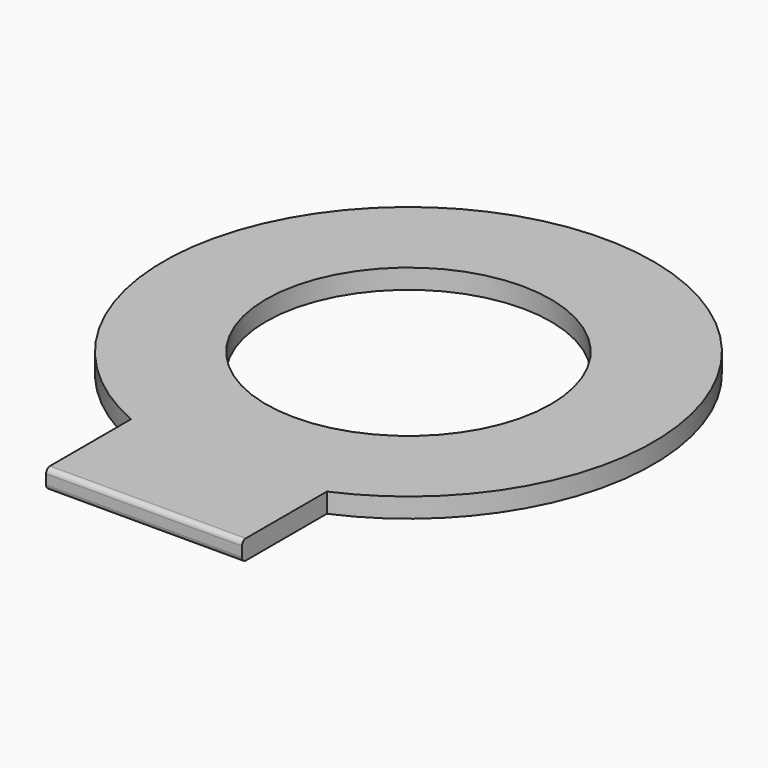
from build123d import *

# Parameters (mm, degrees)
SKETCH_R        = 20
PAD_DEPTH       = 1.6
SKETCH001_W     = 16
SKETCH001_H     = 27
PAD001_DEPTH    = 1.6
FILLET_R        = 0.4
SKETCH002_R     = 11.629701
POCKET_DEPTH    = 0.001
POCKET001_DEPTH = 1.601


with BuildPart() as part:
    # Sketch → Pad (new body)
    with BuildSketch(Plane.XY):
        Circle(SKETCH_R)
    extrude(amount=PAD_DEPTH)

    # Sketch001 → Pad001 (join)
    with BuildSketch(Plane.XY):
        with Locations((0, -13.5)):
            Rectangle(SKETCH001_W, SKETCH001_H)
    extrude(amount=PAD001_DEPTH)

    # Fillet
    fillet_edges = [part.edges().sort_by_distance(p)[0] for p in [
        (0, -27, 1.6),
        (0, -27, 0),
    ]]
    fillet(fillet_edges, radius=FILLET_R)

    # Sketch002 → Pocket (cut, through all)
    with BuildSketch(Plane.XY):
        Circle(SKETCH002_R)
    extrude(amount=-POCKET_DEPTH, mode=Mode.SUBTRACT)

    # Sketch002 → Pocket001 (cut, through all)
    with BuildSketch(Plane.XY):
        Circle(SKETCH002_R)
    extrude(amount=POCKET001_DEPTH, mode=Mode.SUBTRACT)


solid = part.part
